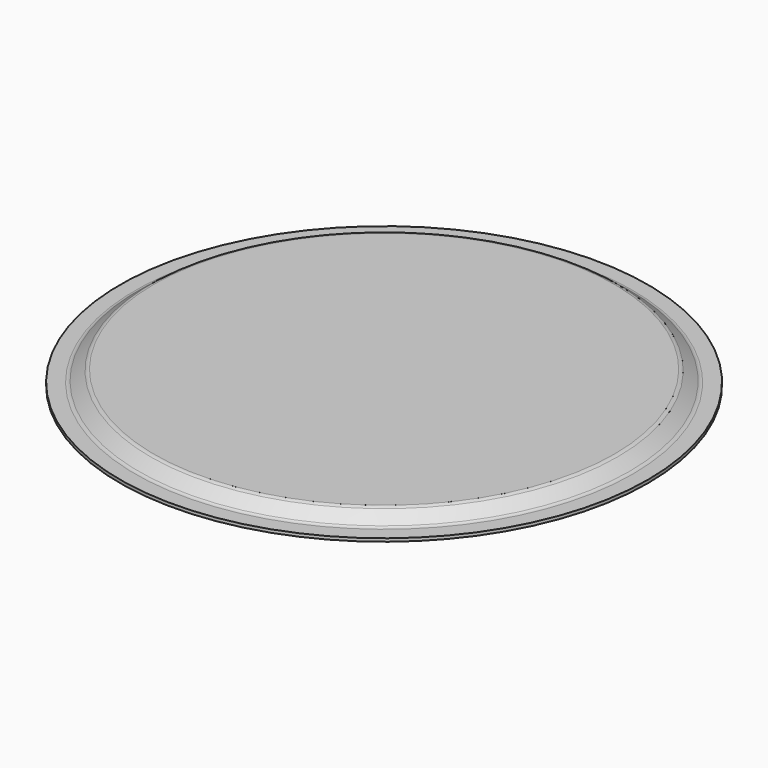
from build123d import *


with BuildPart() as f1:
    # F0 (on Front) → F1 (revolve)
    with BuildSketch(Plane.XZ):
        with BuildLine():
            Line((255.738805, 0), (0, 0))
            Line((0, 0), (0, -3.429))
            Line((0, -3.429), (256.737037, -3.429))
            Line((256.737037, -3.429), (270.505216, -14.083716))
            ThreePointArc((270.505216, -14.083716), (273.327727, -15.603563), (276.49007, -16.129))
            Line((276.49007, -16.129), (293.37, -16.129))
            Line((293.37, -16.129), (293.37, -12.7))
            Line((293.37, -12.7), (276.49007, -12.7))
            ThreePointArc((276.49007, -12.7), (274.4366, -12.358807), (272.603801, -11.371893))
            Line((272.603801, -11.371893), (259.625074, -1.328107))
            ThreePointArc((259.625074, -1.328107), (257.792275, -0.341193), (255.738805, 0))
        make_face()
    revolve(axis=Axis((0, 0, -1.7145), (0, 0, -1)))


solid = f1.part
